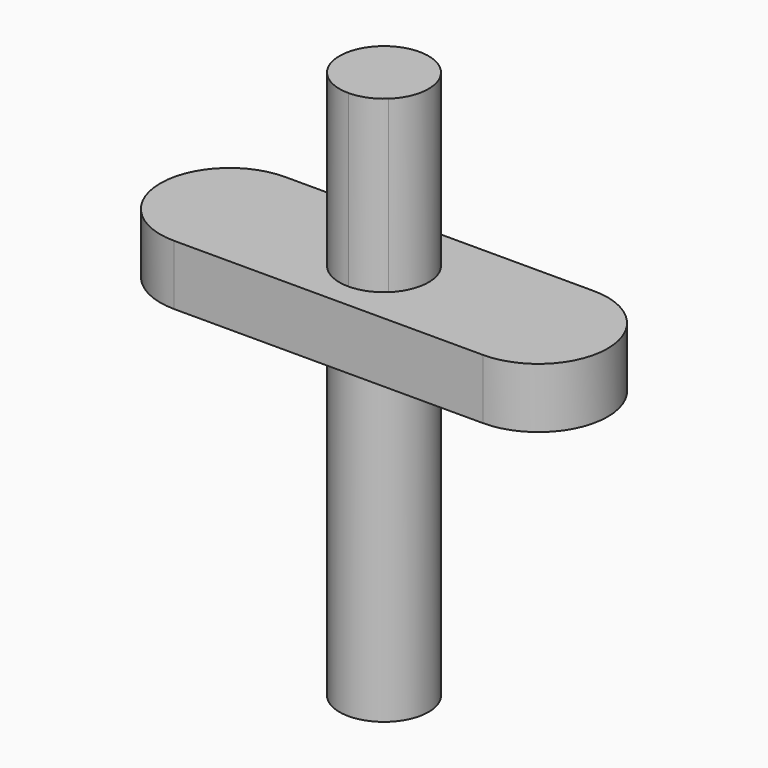
from build123d import *

# Parameters (mm, degrees)
F1_DEPTH = 6.42
F2_R     = 4.76
F3_DEPTH = 34
F4_R     = 4.76
F5_DEPTH = 18.2
F7_DEPTH = 18.2


with BuildPart() as f1:
    # F0 (on Top) → F1 (new body)
    with BuildSketch(Plane.XY):
        with BuildLine():
            Line((16.5, 7.4), (-16.5, 7.4))
            ThreePointArc((-16.5, 7.4), (-23.9, 0), (-16.5, -7.4))
            Line((-16.5, -7.4), (16.5, -7.4))
            ThreePointArc((16.5, -7.4), (23.9, 0), (16.5, 7.4))
        make_face()
    extrude(amount=F1_DEPTH)

    # F2 (on face) → F3 (join)
    with BuildSketch(Plane(origin=(0, 0, 0), x_dir=(1, 0, 0), z_dir=(0, 0, -1))):
        Circle(F2_R)
    extrude(amount=F3_DEPTH)

    # F4 (on face) → F5 (join)
    with BuildSketch(Plane.XY.offset(6.42)):
        Circle(F4_R)
    extrude(amount=F5_DEPTH)

    # F6 (on face) → F7 (join)
    with BuildSketch(Plane.XY.offset(24.62)):
        with BuildLine():
            ThreePointArc((-3.247645, -3.48), (-1.745394, -4.428453), (0, -4.76))
            Line((0, -4.76), (0, -3.48))
            Line((0, -3.48), (-3.247645, -3.48))
        make_face()
        with BuildLine():
            Line((0, -3.48), (0, -4.76))
            ThreePointArc((0, -4.76), (1.745394, -4.428453), (3.247645, -3.48))
            Line((3.247645, -3.48), (0, -3.48))
        make_face()
    extrude(amount=-F7_DEPTH)


solid = f1.part
